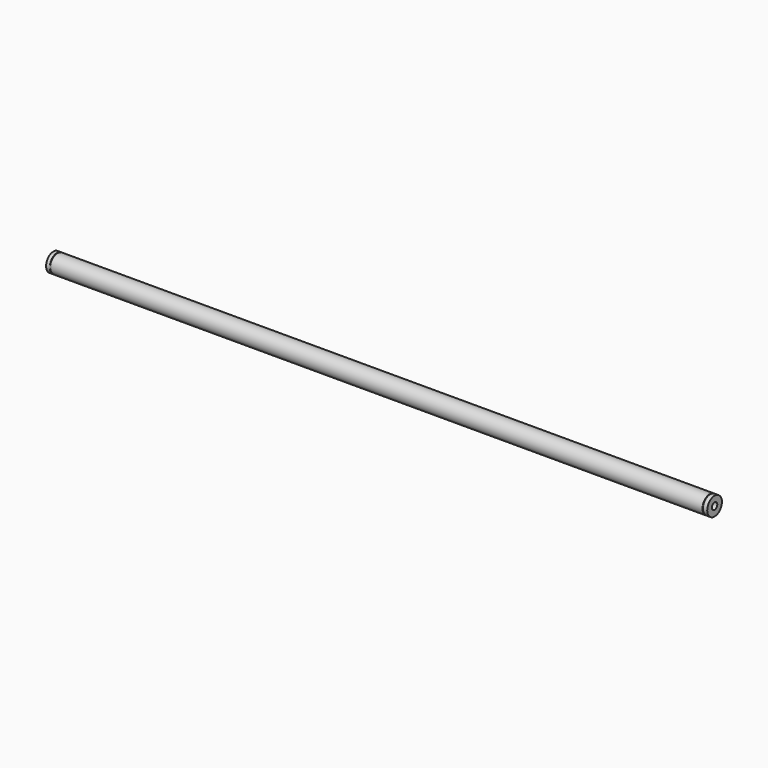
from build123d import *

# Parameters (mm, degrees)
F0_W     = 1.7
F0_H     = 14.3
F3_D     = 11
F3_DEPTH = 80
F3_TIP   = 3.3047334047
F5_D     = 11
F5_DEPTH = 80
F5_TIP   = 3.3047334047


with BuildPart() as f1:
    # F0 (on Front) → F1 (revolve)
    with BuildSketch(Plane.XZ):
        Polygon((534, 14.3), (534, 0), (540, 0), (540, 15), (534, 15), align=None)
        with Locations((533.15, 7.15)):
            Rectangle(F0_W, F0_H)
        Polygon((0, 15), (0, 0), (532.3, 0), (532.3, 14.3), (532.3, 15), align=None)
        Polygon((-532.3, 15), (-532.3, 14.3), (-532.3, 0), (0, 0), (0, 15), align=None)
        with Locations((-533.15, 7.15)):
            Rectangle(F0_W, F0_H)
        Polygon((-534, 15), (-540, 15), (-540, 0), (-534, 0), (-534, 14.3), align=None)
    revolve(axis=Axis((-281.0423572082, 0, 0), (-1, 0, 0)))

    # F3
    with Locations(Plane(origin=(-540, 0, 0), x_dir=(0, -1, 0), z_dir=(-1, 0, 0))):
        with Locations((0, 0)):
            Hole(F3_D / 2, depth=F3_DEPTH)
            with Locations((0, 0, -(F3_DEPTH + F3_TIP / 2))):  # 118° drill point
                Cone(0, F3_D / 2, F3_TIP, mode=Mode.SUBTRACT)

    # F5
    with Locations(Plane.YZ.offset(540)):
        with Locations((0, 0)):
            Hole(F5_D / 2, depth=F5_DEPTH)
            with Locations((0, 0, -(F5_DEPTH + F5_TIP / 2))):  # 118° drill point
                Cone(0, F5_D / 2, F5_TIP, mode=Mode.SUBTRACT)


solid = f1.part
